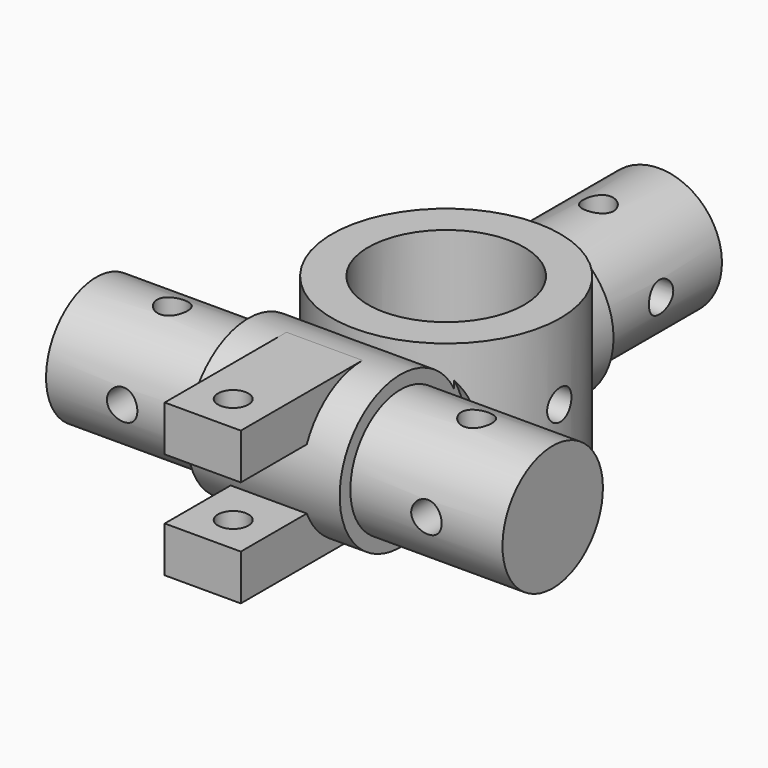
from build123d import *

# Parameters (mm, degrees)
CYLINDER009_R     = 2
CYLINDER009_DEPTH = 20
CYLINDER010_R     = 2
CYLINDER010_DEPTH = 20
CYLINDER011_R     = 2
CYLINDER011_DEPTH = 20
CYLINDER012_R     = 2
CYLINDER012_DEPTH = 20
CYLINDER013_R     = 2
CYLINDER013_DEPTH = 20
CYLINDER014_R     = 2
CYLINDER014_DEPTH = 20
CYLINDER015_R     = 2
CYLINDER015_DEPTH = 30
CYLINDER018_R     = 2
CYLINDER018_DEPTH = 20
CYLINDER007_R     = 10.25
CYLINDER007_DEPTH = 20
CYLINDER002_R     = 10
CYLINDER002_DEPTH = 10
CYLINDER003_R     = 8.25
CYLINDER003_DEPTH = 20
CYLINDER004_R     = 8.25
CYLINDER004_DEPTH = 20
CYLINDER006_R     = 10
CYLINDER006_DEPTH = 10
CYLINDER005_R     = 10
CYLINDER005_DEPTH = 10
CYLINDER017_R     = 10.5
CYLINDER017_DEPTH = 10
CYLINDER016_R     = 10.5
CYLINDER016_DEPTH = 10
CYLINDER_R        = 15
CYLINDER_DEPTH    = 20
BOX001_W          = 10
BOX001_H          = 20
BOX001_DEPTH      = 6
BOX002_W          = 10
BOX002_H          = 20
BOX002_DEPTH      = 6
CYLINDER001_R     = 8.25
CYLINDER001_DEPTH = 20


with BuildPart() as cylinder009:
    # Cylinder009 → Cylinder009 (new body)
    with BuildSketch(Plane(origin=(-20, -10, 0), x_dir=(1, 0, 0), z_dir=(0, 1, 0))):
        Circle(CYLINDER009_R)
    extrude(amount=CYLINDER009_DEPTH)


with BuildPart() as cylinder010:
    # Cylinder010 → Cylinder010 (new body)
    with BuildSketch(Plane(origin=(0, 45, -10), x_dir=(1, 0, 0), z_dir=(0, 0, 1))):
        Circle(CYLINDER010_R)
    extrude(amount=CYLINDER010_DEPTH)


with BuildPart() as cylinder011:
    # Cylinder011 → Cylinder011 (new body)
    with BuildSketch(Plane(origin=(20, 0, -10), x_dir=(1, 0, 0), z_dir=(0, 0, 1))):
        Circle(CYLINDER011_R)
    extrude(amount=CYLINDER011_DEPTH)


with BuildPart() as cylinder012:
    # Cylinder012 → Cylinder012 (new body)
    with BuildSketch(Plane(origin=(-20, 0, -10), x_dir=(1, 0, 0), z_dir=(0, 0, 1))):
        Circle(CYLINDER012_R)
    extrude(amount=CYLINDER012_DEPTH)


with BuildPart() as cylinder013:
    # Cylinder013 → Cylinder013 (new body)
    with BuildSketch(Plane(origin=(20, -10, 0), x_dir=(1, 0, 0), z_dir=(0, 1, 0))):
        Circle(CYLINDER013_R)
    extrude(amount=CYLINDER013_DEPTH)


with BuildPart() as cylinder014:
    # Cylinder014 → Cylinder014 (new body)
    with BuildSketch(Plane(origin=(10, 45, 0), x_dir=(0, 1, 0), z_dir=(-1, 0, 0))):
        Circle(CYLINDER014_R)
    extrude(amount=CYLINDER014_DEPTH)


with BuildPart() as cylinder015:
    # Cylinder015 → Cylinder015 (new body)
    with BuildSketch(Plane(origin=(-15, 20, 0), x_dir=(0, -1, 0), z_dir=(1, 0, 0))):
        Circle(CYLINDER015_R)
    extrude(amount=CYLINDER015_DEPTH)


with BuildPart() as cylinder018:
    # Cylinder018 → Cylinder018 (new body)
    with BuildSketch(Plane(origin=(0, -15, -10), x_dir=(1, 0, 0), z_dir=(0, 0, 1))):
        Circle(CYLINDER018_R)
    extrude(amount=CYLINDER018_DEPTH)


with BuildPart() as negative_fusion:
    # Cylinder007 → Cylinder007 (new body)
    with BuildSketch(Plane(origin=(0, 20, -10), x_dir=(1, 0, 0), z_dir=(0, 0, 1))):
        Circle(CYLINDER007_R)
    extrude(amount=CYLINDER007_DEPTH)

    # Fusion001: union Cylinder009, Cylinder010, Cylinder011, Cylinder012, Cylinder013, Cylinder014, Cylinder015, Cylinder018
    add(cylinder009.part)
    add(cylinder010.part)
    add(cylinder011.part)
    add(cylinder012.part)
    add(cylinder013.part)
    add(cylinder014.part)
    add(cylinder015.part)
    add(cylinder018.part)


with BuildPart() as cylinder002:
    # Cylinder002 → Cylinder002 (new body)
    with BuildSketch(Plane(origin=(0, 35, 0), x_dir=(0, 0, 1), z_dir=(0, -1, 0))):
        Circle(CYLINDER002_R)
    extrude(amount=CYLINDER002_DEPTH)


with BuildPart() as cylinder003:
    # Cylinder003 → Cylinder003 (new body)
    with BuildSketch(Plane(origin=(-10, 0, 0), x_dir=(0, 0, -1), z_dir=(-1, 0, 0))):
        Circle(CYLINDER003_R)
    extrude(amount=CYLINDER003_DEPTH)


with BuildPart() as cylinder004:
    # Cylinder004 → Cylinder004 (new body)
    with BuildSketch(Plane(origin=(0, 35, 0), x_dir=(0, 0, -1), z_dir=(0, 1, 0))):
        Circle(CYLINDER004_R)
    extrude(amount=CYLINDER004_DEPTH)


with BuildPart() as cylinder006:
    # Cylinder006 → Cylinder006 (new body)
    with BuildSketch(Plane(origin=(-10, 0, 0), x_dir=(0, 0, 1), z_dir=(1, 0, 0))):
        Circle(CYLINDER006_R)
    extrude(amount=CYLINDER006_DEPTH)


with BuildPart() as cylinder005:
    # Cylinder005 → Cylinder005 (new body)
    with BuildSketch(Plane.ZY.offset(-10)):
        Circle(CYLINDER005_R)
    extrude(amount=CYLINDER005_DEPTH)


with BuildPart() as cylinder017:
    # Cylinder017 → Cylinder017 (new body)
    with BuildSketch(Plane.ZY.offset(10)):
        Circle(CYLINDER017_R)
    extrude(amount=CYLINDER017_DEPTH)


with BuildPart() as fusion002:
    # Cylinder016 → Cylinder016 (new body)
    with BuildSketch(Plane(origin=(10, 0, 0), x_dir=(0, 0, -1), z_dir=(1, 0, 0))):
        Circle(CYLINDER016_R)
    extrude(amount=CYLINDER016_DEPTH)

    # Fusion002: union Cylinder017
    add(cylinder017.part)


with BuildPart() as cut001:
    # Cylinder → Cylinder (new body)
    with BuildSketch(Plane(origin=(0, 20, -10), x_dir=(1, 0, 0), z_dir=(0, 0, 1))):
        Circle(CYLINDER_R)
    extrude(amount=CYLINDER_DEPTH)

    # Cut001: cut Fusion002
    add(fusion002.part, mode=Mode.SUBTRACT)


with BuildPart() as cube001:
    # Box001 → Box001 (new body)
    with BuildSketch(Plane(origin=(-5, -20, -10), x_dir=(1, 0, 0), z_dir=(0, 0, 1))):
        with Locations((5, 10)):
            Rectangle(BOX001_W, BOX001_H)
    extrude(amount=BOX001_DEPTH)


with BuildPart() as cube002:
    # Box002 → Box002 (new body)
    with BuildSketch(Plane(origin=(-5, -20, 4), x_dir=(1, 0, 0), z_dir=(0, 0, 1))):
        with Locations((5, 10)):
            Rectangle(BOX002_W, BOX002_H)
    extrude(amount=BOX002_DEPTH)


with BuildPart() as cut:
    # Cylinder001 → Cylinder001 (new body)
    with BuildSketch(Plane(origin=(10, 0, 0), x_dir=(0, 0, -1), z_dir=(1, 0, 0))):
        Circle(CYLINDER001_R)
    extrude(amount=CYLINDER001_DEPTH)

    # Fusion: union Cylinder002, Cylinder003, Cylinder004, Cylinder006, Cylinder005, Cut001, Cube001, Cube002
    add(cylinder002.part)
    add(cylinder003.part)
    add(cylinder004.part)
    add(cylinder006.part)
    add(cylinder005.part)
    add(cut001.part)
    add(cube001.part)
    add(cube002.part)

    # Cut: cut Negative Fusion
    add(negative_fusion.part, mode=Mode.SUBTRACT)


solid = cut.part
